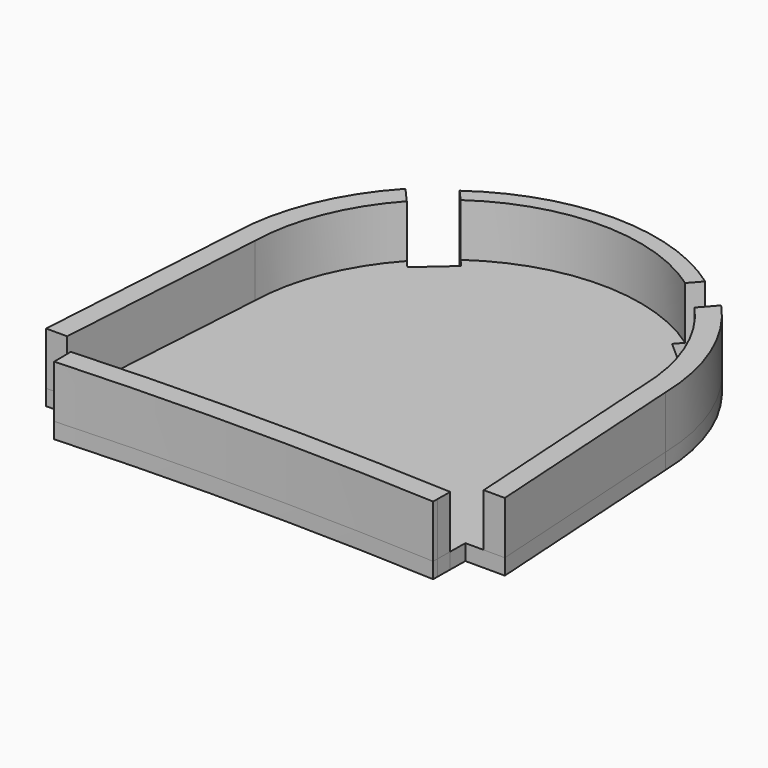
from build123d import *

# Parameters (mm, degrees)
F1_DEPTH = 63.5
F2_DEPTH = 19.05


with BuildPart() as f1:
    # F0 (on Top) → F1 (new body)
    with BuildSketch(Plane.XY):
        with BuildLine():
            Line((-50.724847, 0.151526), (-50.499388, 19.214443))
            ThreePointArc((-50.499388, 19.214443), (-279.400876, 24.975758), (-508.301389, 19.175796))
            Line((-508.301389, 19.175796), (-508, -6.241581))
            ThreePointArc((-508, -6.241581), (-279.400492, -0.424242), (-50.8, -6.202807))
            Line((-50.8, -6.202807), (-50.724847, 0.151526))
        make_face()
        with BuildLine():
            Line((-2.607415, 41.7279), (-19.045769, 304.8))
            ThreePointArc((-19.045769, 304.8), (-38.276954, 396.777465), (-88.897541, 475.943421))
            Line((-88.897541, 475.943421), (-93.118576, 471.157759))
            Line((-93.118576, 471.157759), (-105.788427, 456.793126))
            ThreePointArc((-105.788427, 456.793126), (-61.239146, 385.808392), (-44.426941, 303.70589))
            Line((-44.426941, 303.70589), (-28.056954, 41.7279))
            Line((-28.056954, 41.7279), (-2.607415, 41.7279))
        make_face()
        with BuildLine():
            ThreePointArc((-414.91762, 490.401024), (-279.401039, 533.4), (-143.885626, 490.397344))
            Line((-143.885626, 490.397344), (-131.215844, 504.761899))
            ThreePointArc((-131.215844, 504.761899), (-279.401042, 552.45), (-427.587437, 504.765619))
            Line((-427.587437, 504.765619), (-414.91762, 490.401024))
        make_face()
        with BuildLine():
            Line((-556.19941, 41.689109), (-530.750038, 41.689109))
            Line((-530.750038, 41.689109), (-514.366597, 304.326076))
            ThreePointArc((-514.366597, 304.326076), (-497.452531, 386.099192), (-453.015732, 456.797841))
            Line((-453.015732, 456.797841), (-465.685548, 471.162435))
            Line((-465.685548, 471.162435), (-469.906573, 475.948085))
            ThreePointArc((-469.906573, 475.948085), (-520.406988, 397.082001), (-539.745769, 305.451424))
            Line((-539.745769, 305.451424), (-556.19941, 41.689109))
        make_face()
    extrude(amount=F1_DEPTH)


with BuildPart() as f2:
    # F0 (on Top) → F2 (new body)
    with BuildSketch(Plane.XY):
        with BuildLine():
            Line((-2.607415, 41.7279), (-19.045769, 304.8))
            ThreePointArc((-19.045769, 304.8), (-38.276954, 396.777465), (-88.897541, 475.943421))
            Line((-88.897541, 475.943421), (-93.118576, 471.157759))
            Line((-93.118576, 471.157759), (-105.788427, 456.793126))
            ThreePointArc((-105.788427, 456.793126), (-61.239146, 385.808392), (-44.426941, 303.70589))
            Line((-44.426941, 303.70589), (-28.056954, 41.7279))
            Line((-28.056954, 41.7279), (-2.607415, 41.7279))
        make_face()
        with BuildLine():
            Line((-50.23312, 41.7279), (-28.056954, 41.7279))
            Line((-28.056954, 41.7279), (-44.426941, 303.70589))
            ThreePointArc((-44.426941, 303.70589), (-61.239146, 385.808392), (-105.788427, 456.793126))
            Line((-105.788427, 456.793126), (-114.095815, 447.374502))
            Line((-114.095815, 447.374502), (-152.193926, 480.977685))
            Line((-152.193926, 480.977685), (-143.885626, 490.397344))
            ThreePointArc((-143.885626, 490.397344), (-279.401039, 533.4), (-414.91762, 490.401024))
            Line((-414.91762, 490.401024), (-406.606074, 480.977685))
            Line((-406.606074, 480.977685), (-444.704185, 447.374502))
            Line((-444.704185, 447.374502), (-453.015732, 456.797841))
            ThreePointArc((-453.015732, 456.797841), (-497.452531, 386.099192), (-514.366597, 304.326076))
            Line((-514.366597, 304.326076), (-530.750038, 41.689109))
            Line((-530.750038, 41.689109), (-508.568342, 41.689109))
            Line((-508.568342, 41.689109), (-508.301389, 19.175796))
            ThreePointArc((-508.301389, 19.175796), (-279.400876, 24.975758), (-50.499388, 19.214443))
            Line((-50.499388, 19.214443), (-50.23312, 41.7279))
        make_face()
        with BuildLine():
            Line((-50.724847, 0.151526), (-50.499388, 19.214443))
            ThreePointArc((-50.499388, 19.214443), (-279.400876, 24.975758), (-508.301389, 19.175796))
            Line((-508.301389, 19.175796), (-508, -6.241581))
            ThreePointArc((-508, -6.241581), (-279.400492, -0.424242), (-50.8, -6.202807))
            Line((-50.8, -6.202807), (-50.724847, 0.151526))
        make_face()
        with BuildLine():
            ThreePointArc((-414.91762, 490.401024), (-279.401039, 533.4), (-143.885626, 490.397344))
            Line((-143.885626, 490.397344), (-131.215844, 504.761899))
            ThreePointArc((-131.215844, 504.761899), (-279.401042, 552.45), (-427.587437, 504.765619))
            Line((-427.587437, 504.765619), (-414.91762, 490.401024))
        make_face()
        with BuildLine():
            Line((-556.19941, 41.689109), (-530.750038, 41.689109))
            Line((-530.750038, 41.689109), (-514.366597, 304.326076))
            ThreePointArc((-514.366597, 304.326076), (-497.452531, 386.099192), (-453.015732, 456.797841))
            Line((-453.015732, 456.797841), (-465.685548, 471.162435))
            Line((-465.685548, 471.162435), (-469.906573, 475.948085))
            ThreePointArc((-469.906573, 475.948085), (-520.406988, 397.082001), (-539.745769, 305.451424))
            Line((-539.745769, 305.451424), (-556.19941, 41.689109))
        make_face()
    extrude(amount=-F2_DEPTH)


solid = Compound([f1.part, f2.part])
